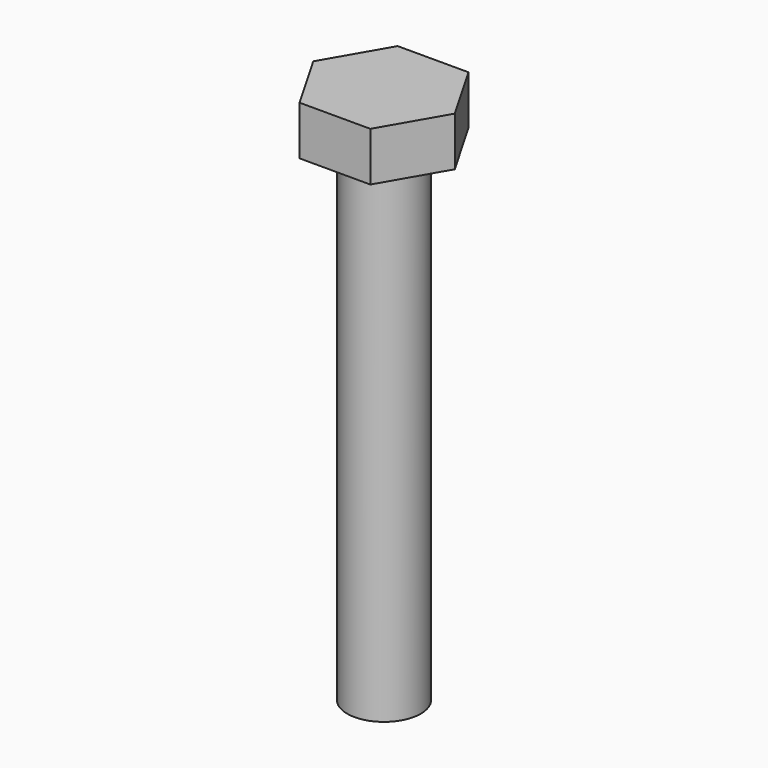
from build123d import *

# Parameters (mm, degrees)
F0_R     = 3
F1_DEPTH = 4
F2_DEPTH = 40


with BuildPart() as f1:
    # F0 (on Top) → F1 (new body)
    with BuildSketch(Plane.XY):
        Polygon((2.8867513459, 5), (-2.8867513459, 5), (-5.7735026919, 0), (-2.8867513459, -5), (2.8867513459, -5), (5.7735026919, 0), align=None)
        Circle(F0_R, mode=Mode.SUBTRACT)
        Circle(F0_R)
    extrude(amount=F1_DEPTH)

    # F0 (on Top) → F2 (join)
    with BuildSketch(Plane.XY):
        Circle(F0_R)
    extrude(amount=-F2_DEPTH)


solid = f1.part
